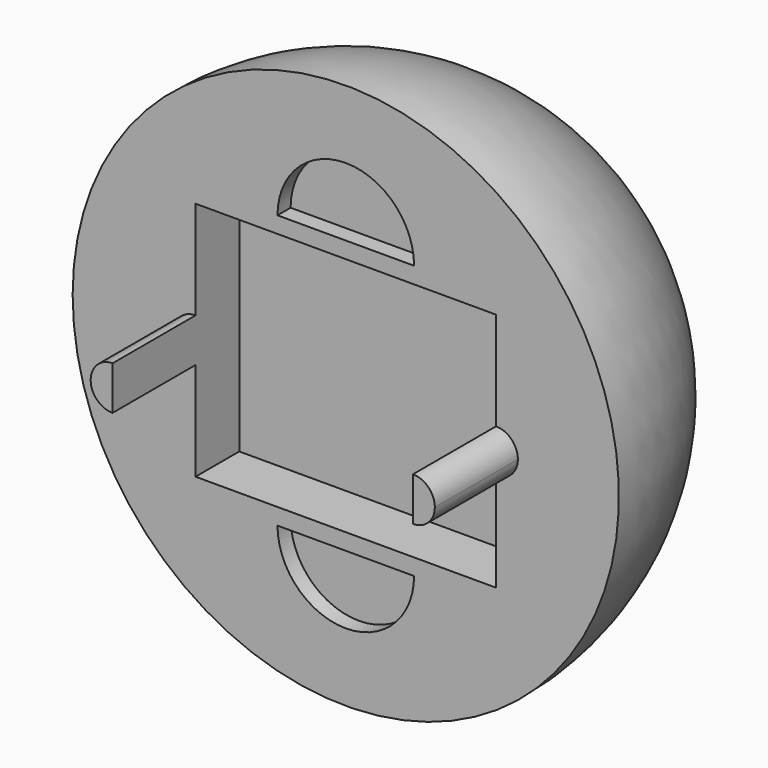
from build123d import *

# Parameters (mm, degrees)
F3_DEPTH = 10
F5_DEPTH = 3
F7_DEPTH = 19


with BuildPart() as f1:
    # F0 (on Top) → F1 (revolve)
    with BuildSketch(Plane.XY):
        with BuildLine():
            Line((0, 0), (0, 50))
            ThreePointArc((0, 50), (-35.355339, 35.355339), (-50, 0))
            Line((-50, 0), (0, 0))
        make_face()
    revolve(axis=Axis((0, 25, 0), (0, -1, 0)))

    # F2 (on Front) → F3 (cut)
    with BuildSketch(Plane.XZ):
        Polygon((27.5, 22), (-27.5, 22), (-27.5, 4), (-27.5, -4), (-27.5, -22), (27.5, -22), (27.5, -4), (27.5, 4), align=None)
    extrude(amount=-F3_DEPTH, mode=Mode.SUBTRACT)

    # F4 (on Front) → F5 (cut)
    with BuildSketch(Plane.XZ):
        with BuildLine():
            Line((12.5, -25), (0, -25))
            Line((0, -25), (-12.5, -25))
            ThreePointArc((-12.5, -25), (0, -37.5), (12.5, -25))
        make_face()
        with BuildLine():
            Line((-12.5, 25), (0, 25))
            Line((0, 25), (12.5, 25))
            ThreePointArc((12.5, 25), (0, 37.5), (-12.5, 25))
        make_face()
    extrude(amount=-F5_DEPTH, mode=Mode.SUBTRACT)

    # F6 (on Front) → F7 (join)
    with BuildSketch(Plane.XZ):
        with BuildLine():
            Line((-27.5, 0), (-27.5, 4))
            ThreePointArc((-27.5, 4), (-31.5, 0), (-27.5, -4))
            Line((-27.5, -4), (-27.5, 0))
        make_face()
        with BuildLine():
            ThreePointArc((31.5, 0), (30.328427, 2.828427), (27.5, 4))
            Line((27.5, 4), (27.5, 0))
            Line((27.5, 0), (27.5, -4))
            ThreePointArc((27.5, -4), (30.328427, -2.828427), (31.5, 0))
        make_face()
    extrude(amount=F7_DEPTH)


solid = f1.part
